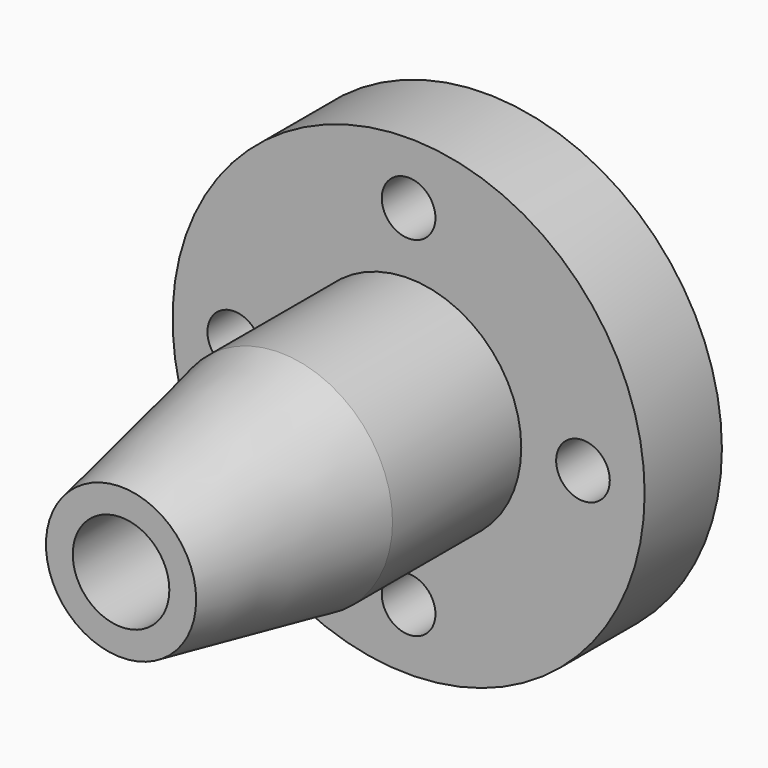
from build123d import *

# Parameters (mm, degrees)
F4_D = 254


with BuildPart() as f2:
    # F1 (on face) → F2 (revolve)
    with BuildSketch(Plane.XY):
        Polygon((1117.6, -457.2), (1117.6, 0), (228.6, 0), (228.6, -2159), (355.6, -2159), (533.4, -1219.2), (533.4, -457.2), align=None)
    revolve(axis=Axis((0, -1079.5, 0), (0, -1, 0)))

    # F4 (through all)
    with Locations(Plane(origin=(0, 0, 0), x_dir=(-1, 0, 0), z_dir=(0, 1, 0))):
        with Locations((0, 825.5), (-825.5, 0), (825.5, 0), (0, -825.5)):
            Hole(F4_D / 2)


solid = f2.part
